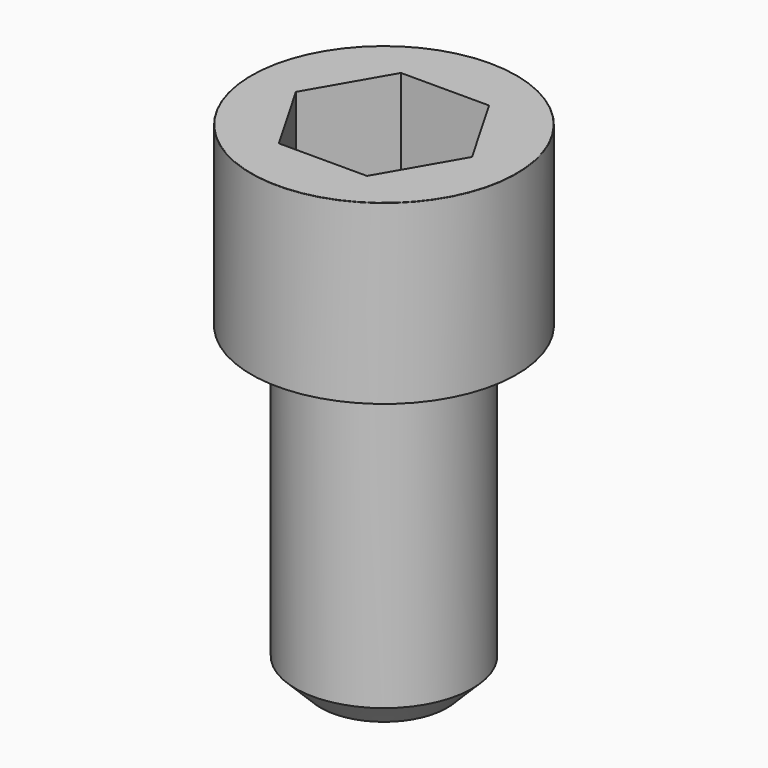
from build123d import *

# Parameters (mm, degrees)
POCKET_DEPTH = 12.07


with BuildPart() as part:
    # Sketch → Revolve (revolve)
    with BuildSketch(Plane.YZ):
        with BuildLine():
            Line((6.999, 0), (10.5, 0))
            Line((10.5, 0), (10.5, 13.97229))
            ThreePointArc((10.5, 13.97229), (10.491884, 13.991884), (10.47229, 14))
            Line((10.47229, 14), (0, 14))
            Line((0, -25), (0, 14))
            Line((5, -25), (0, -25))
            Line((7, -23), (5, -25))
            Line((7, -0.2), (7, -23))
            Line((6.999, 0), (7, -0.2))
        make_face()
    revolve(axis=Axis((0, 0, 0), (0, 0, 1)))

    # Sketch001 → Pocket (cut)
    with BuildSketch(Plane.XY.offset(14)):
        Polygon((6.968618, 0), (3.484309, 6.035), (-3.484309, 6.035), (-6.968618, 0), (-3.484309, -6.035), (3.484309, -6.035), align=None)
    extrude(amount=-POCKET_DEPTH, mode=Mode.SUBTRACT)


solid = part.part
